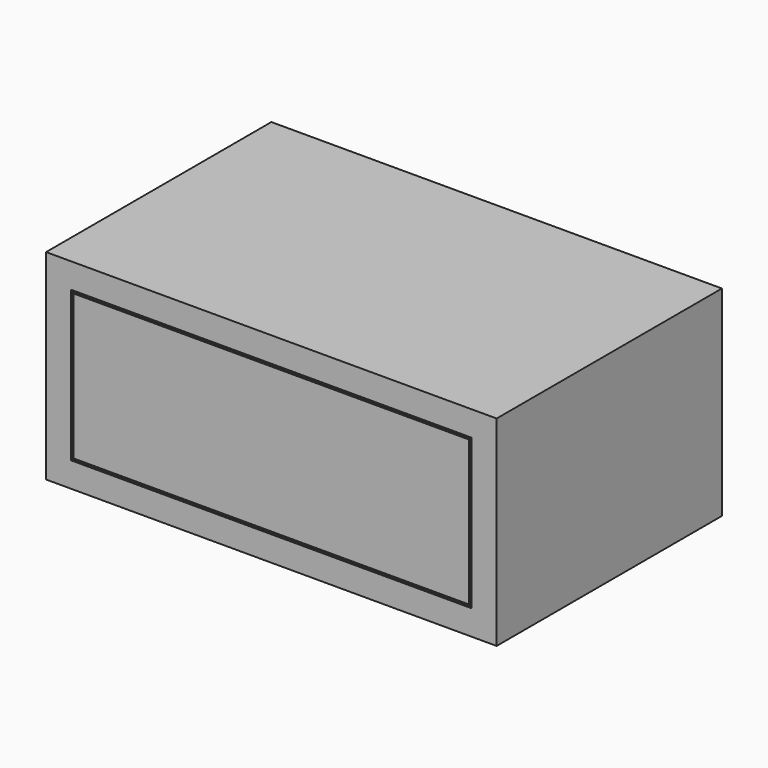
from build123d import *

# Parameters (mm, degrees)
F0_W     = 457.2
F0_H     = 285.75
F1_DEPTH = 203.2
F2_W     = 406.4
F2_H     = 152.4
F2_W_2   = 401.32
F2_H_2   = 147.32
F3_DEPTH = 2.54


with BuildPart() as f1:
    # F0 (on Top) → F1 (new body)
    with BuildSketch(Plane.XY):
        Rectangle(F0_W, F0_H)
    extrude(amount=F1_DEPTH)

    # F2 (on face) → F3 (cut)
    with BuildSketch(Plane.XZ.offset(142.875)):
        with Locations((0, 101.6)):
            Rectangle(F2_W, F2_H)
        with Locations((0, 101.6)):
            Rectangle(F2_W_2, F2_H_2, mode=Mode.SUBTRACT)
    extrude(amount=-F3_DEPTH, mode=Mode.SUBTRACT)


solid = f1.part
